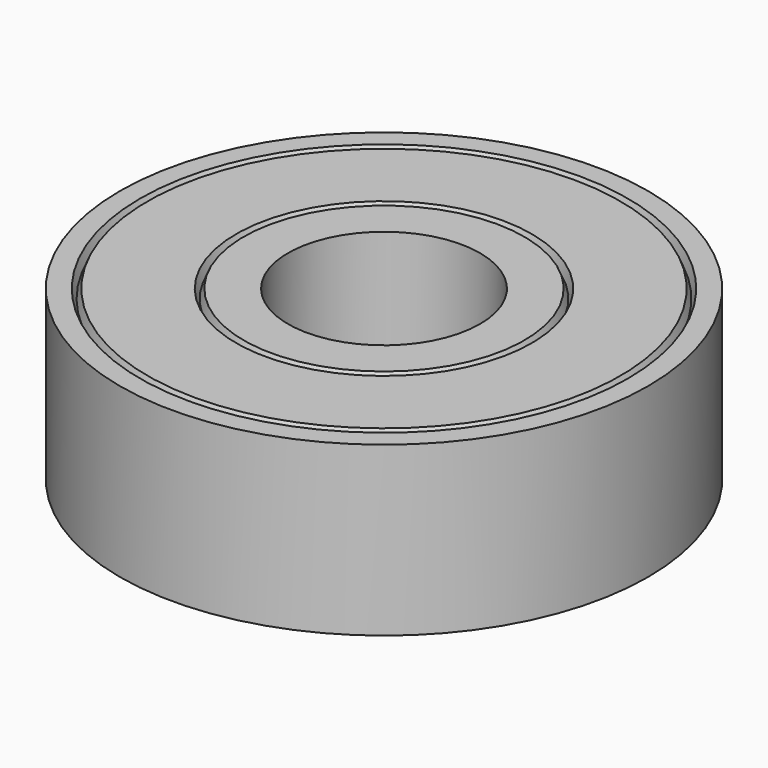
from build123d import *

# Parameters (mm, degrees)
SKETCH002_R   = 11
SKETCH002_R_2 = 4
PAD002_DEPTH  = 3.5


with BuildPart() as part:
    # Sketch002 → Pad002 (new body, symmetric)
    with BuildSketch(Plane.XY):
        Circle(SKETCH002_R)
        Circle(SKETCH002_R_2, mode=Mode.SUBTRACT)
    extrude(amount=PAD002_DEPTH, both=True)

    # Sketch003 → Groove (revolve, cut)
    with BuildSketch(Plane.YZ):
        Polygon((3.265378, -9.726486), (6, -3.124525), (6.615998, -4.611675), (9.384002, -4.611675), (10, -3.124525), (10.963347, -5.45025), (14.375534, -9.430194), (8.874444, -10.64642), align=None)
    groove = revolve(axis=Axis((0, 0, 0), (0, 0, 1)), mode=Mode.SUBTRACT)

    # Mirrored: Groove across XY
    add(groove.mirror(Plane.XY), mode=Mode.SUBTRACT)


with BuildPart() as part_1:
    # Body001 placement: moved
    add(part.part.moved(Location((0, 0, 12.75))))


solid = part_1.part
